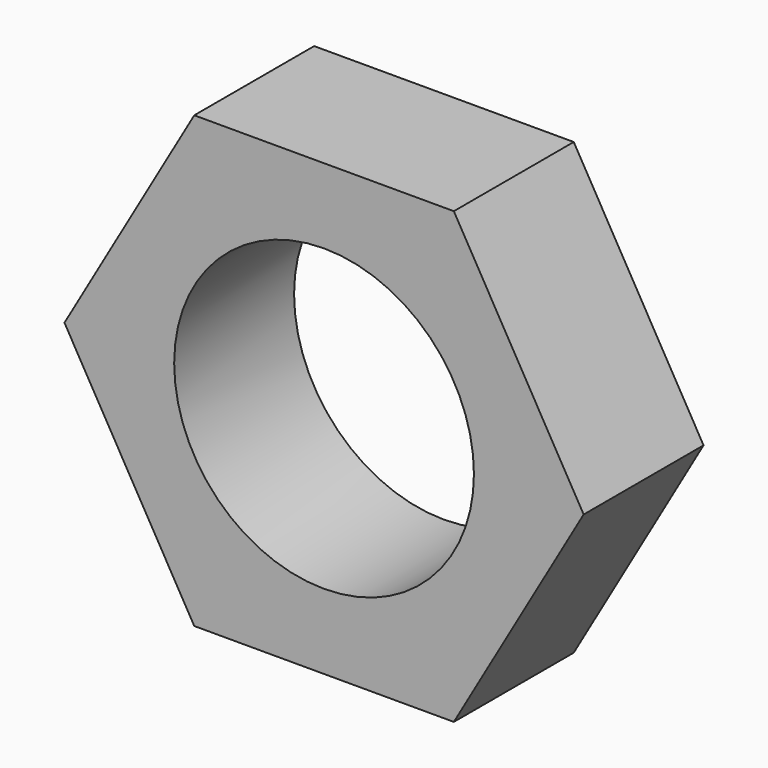
from build123d import *

# Parameters (mm, degrees)
F1_DEPTH = 12.7


with BuildPart() as f1:
    # F0 (on Front) → F1 (new body)
    with BuildSketch(Plane.XZ):
        Polygon((10.998523, 19.05), (0, 19.05), (-10.998523, 19.05), (-21.997045, 0), (-10.998523, -19.05), (10.998523, -19.05), (21.997045, 0), align=None)
        with BuildLine():
            ThreePointArc((12.7, 0), (-8.980256, -8.980256), (0, 12.7))
            ThreePointArc((0, 12.7), (8.980256, 8.980256), (12.7, 0))
        make_face(mode=Mode.SUBTRACT)
    extrude(amount=F1_DEPTH)


solid = f1.part
